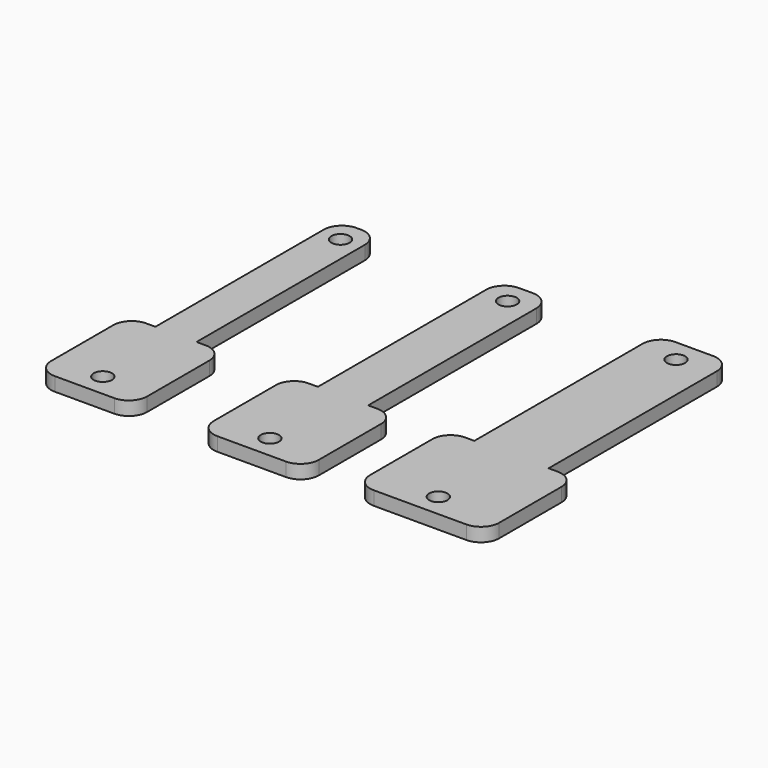
from build123d import *

# Parameters (mm, degrees)
F0_R     = 4
F1_DEPTH = 6
F2_R     = 4
F3_DEPTH = 6
F4_R     = 4
F5_DEPTH = 6


with BuildPart() as f1:
    # F0 (on Top) → F1 (new body)
    with BuildSketch(Plane.XY):
        with BuildLine():
            Line((-36.528265, 150), (-38.528265, 150))
            ThreePointArc((-38.528265, 150), (-44.18512, 147.656854), (-46.528265, 142))
            Line((-46.528265, 142), (-46.528265, 50))
            Line((-46.528265, 50), (-50.528265, 50))
            ThreePointArc((-50.528265, 50), (-56.18512, 47.656854), (-58.528265, 42))
            Line((-58.528265, 42), (-58.528265, 8))
            ThreePointArc((-58.528265, 8), (-56.18512, 2.343146), (-50.528265, 0))
            Line((-50.528265, 0), (-24.528265, 0))
            ThreePointArc((-24.528265, 0), (-18.871411, 2.343146), (-16.528265, 8))
            Line((-16.528265, 8), (-16.528265, 42))
            ThreePointArc((-16.528265, 42), (-18.871411, 47.656854), (-24.528265, 50))
            Line((-24.528265, 50), (-28.528265, 50))
            Line((-28.528265, 50), (-28.528265, 142))
            ThreePointArc((-28.528265, 142), (-30.871411, 147.656854), (-36.528265, 150))
        make_face()
        with Locations((-37.528265, 10)):
            Circle(F0_R, mode=Mode.SUBTRACT)
        with Locations((-37.528265, 140)):
            Circle(F0_R, mode=Mode.SUBTRACT)
    extrude(amount=F1_DEPTH)


with BuildPart() as f3:
    # F2 (on Top) → F3 (new body)
    with BuildSketch(Plane.XY):
        with BuildLine():
            Line((38.574718, 150), (32.574718, 150))
            ThreePointArc((32.574718, 150), (26.917864, 147.656854), (24.574718, 142))
            Line((24.574718, 142), (24.574718, 50))
            Line((24.574718, 50), (20.574718, 50))
            ThreePointArc((20.574718, 50), (14.917864, 47.656854), (12.574718, 42))
            Line((12.574718, 42), (12.574718, 8))
            ThreePointArc((12.574718, 8), (14.917864, 2.343146), (20.574718, 0))
            Line((20.574718, 0), (50.574718, 0))
            ThreePointArc((50.574718, 0), (56.231572, 2.343146), (58.574718, 8))
            Line((58.574718, 8), (58.574718, 42))
            ThreePointArc((58.574718, 42), (56.231572, 47.656854), (50.574718, 50))
            Line((50.574718, 50), (46.574718, 50))
            Line((46.574718, 50), (46.574718, 142))
            ThreePointArc((46.574718, 142), (44.231572, 147.656854), (38.574718, 150))
        make_face()
        with Locations((35.574718, 10)):
            Circle(F2_R, mode=Mode.SUBTRACT)
        with Locations((35.574718, 140)):
            Circle(F2_R, mode=Mode.SUBTRACT)
    extrude(amount=F3_DEPTH)


with BuildPart() as f5:
    # F4 (on Top) → F5 (new body)
    with BuildSketch(Plane.XY):
        with BuildLine():
            Line((115.785624, 152.153529), (99.285624, 152.153529))
            ThreePointArc((99.285624, 152.153529), (93.628769, 149.810384), (91.285624, 144.153529))
            Line((91.285624, 144.153529), (91.285624, 52.153529))
            Line((91.285624, 52.153529), (87.285624, 52.153529))
            ThreePointArc((87.285624, 52.153529), (81.628769, 49.810384), (79.285624, 44.153529))
            Line((79.285624, 44.153529), (79.285624, 10.153529))
            ThreePointArc((79.285624, 10.153529), (81.628769, 4.496675), (87.285624, 2.153529))
            Line((87.285624, 2.153529), (127.785624, 2.153529))
            ThreePointArc((127.785624, 2.153529), (133.442478, 4.496675), (135.785624, 10.153529))
            Line((135.785624, 10.153529), (135.785624, 44.153529))
            ThreePointArc((135.785624, 44.153529), (133.442478, 49.810384), (127.785624, 52.153529))
            Line((127.785624, 52.153529), (123.785624, 52.153529))
            Line((123.785624, 52.153529), (123.785624, 144.153529))
            ThreePointArc((123.785624, 144.153529), (121.442478, 149.810384), (115.785624, 152.153529))
        make_face()
        with Locations((107.535624, 12.153529)):
            Circle(F4_R, mode=Mode.SUBTRACT)
        with Locations((107.535624, 142.153529)):
            Circle(F4_R, mode=Mode.SUBTRACT)
    extrude(amount=F5_DEPTH)


solid = Compound([f1.part, f3.part, f5.part])
